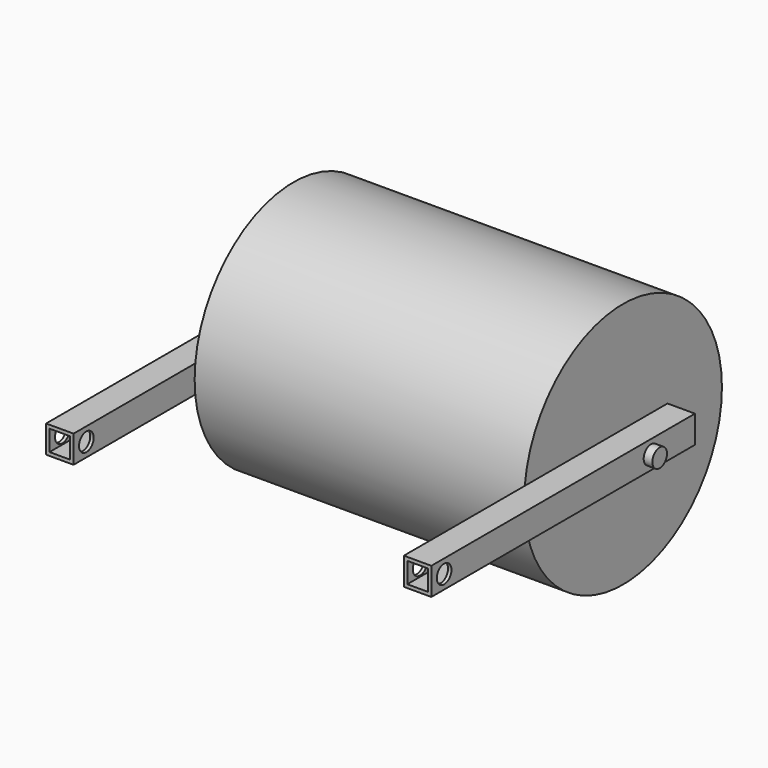
from build123d import *

# Parameters (mm, degrees)
F0_R          = 171.45
F0_R_2        = 15.875
F1_DEPTH      = 228.6
F2_R          = 12.7
F3_DEPTH      = 279.4
F4_W          = 38.1
F4_H          = 38.1
F4_W_2        = 28.575
F4_H_2        = 28.575
F5_DEPTH      = 381
F5_DEPTH_BACK = 76.2
F6_R          = 12.7
F7_DEPTH      = 546.7976089102


with BuildPart() as f1:
    # F0 (on Right) → F1 (new body, symmetric)
    with BuildSketch(Plane.YZ):
        Circle(F0_R)
        Circle(F0_R_2, mode=Mode.SUBTRACT)
    extrude(amount=F1_DEPTH, both=True)


with BuildPart() as f3:
    # F2 (on Right) → F3 (new body, symmetric)
    with BuildSketch(Plane.YZ):
        Circle(F2_R)
    extrude(amount=F3_DEPTH, both=True)

    # F4 (on Front) → F5 (join, two sides)
    with BuildSketch(Plane.XZ) as f5_sk:
        with Locations((248.3466089102, 0)):
            Rectangle(F4_W, F4_H)
        with Locations((248.3466089102, 0)):
            Rectangle(F4_W_2, F4_H_2, mode=Mode.SUBTRACT)
        with Locations((-248.012687972, 0)):
            Rectangle(F4_W, F4_H)
        with Locations((-248.012687972, 0)):
            Rectangle(F4_W_2, F4_H_2, mode=Mode.SUBTRACT)
    extrude(amount=F5_DEPTH)
    extrude(f5_sk.sketch, amount=-F5_DEPTH_BACK)

    # F6 (on face) → F7 (cut, through all)
    with BuildSketch(Plane.YZ.offset(267.3966089102)):
        with Locations((-358.775, 0)):
            Circle(F6_R)
    extrude(amount=-F7_DEPTH, mode=Mode.SUBTRACT)


solid = Compound([f1.part, f3.part])
